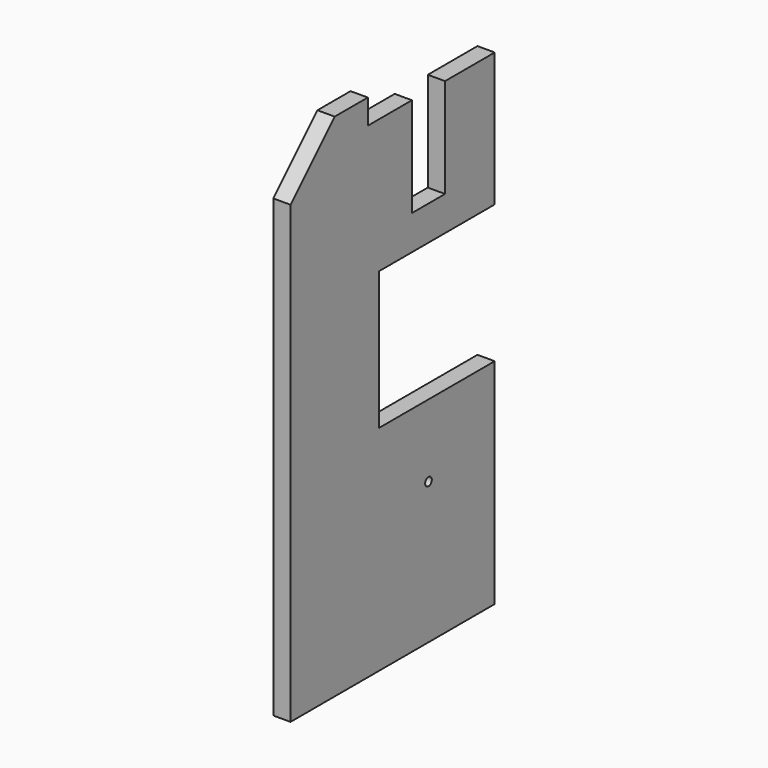
from build123d import *

# Parameters (mm, degrees)
F0_R     = 6
F1_DEPTH = 25
F2_SIZE  = 80


with BuildPart() as f1:
    # F0 (on Right) → F1 (new body)
    with BuildSketch(Plane.YZ):
        Polygon((0, 740), (0, 0), (370, 0), (370, 310), (160, 310), (160, 510), (370, 510), (370, 704), (280, 704), (280, 560), (220, 560), (220, 704), (140, 704), (140, 740), align=None)
        with Locations((250, 205)):
            Circle(F0_R, mode=Mode.SUBTRACT)
    extrude(amount=F1_DEPTH)

    # F2
    f2_edges = [f1.edges().sort_by_distance(p)[0] for p in [
        (12.5, 0, 740),
    ]]
    chamfer(f2_edges, length=F2_SIZE)


solid = f1.part
